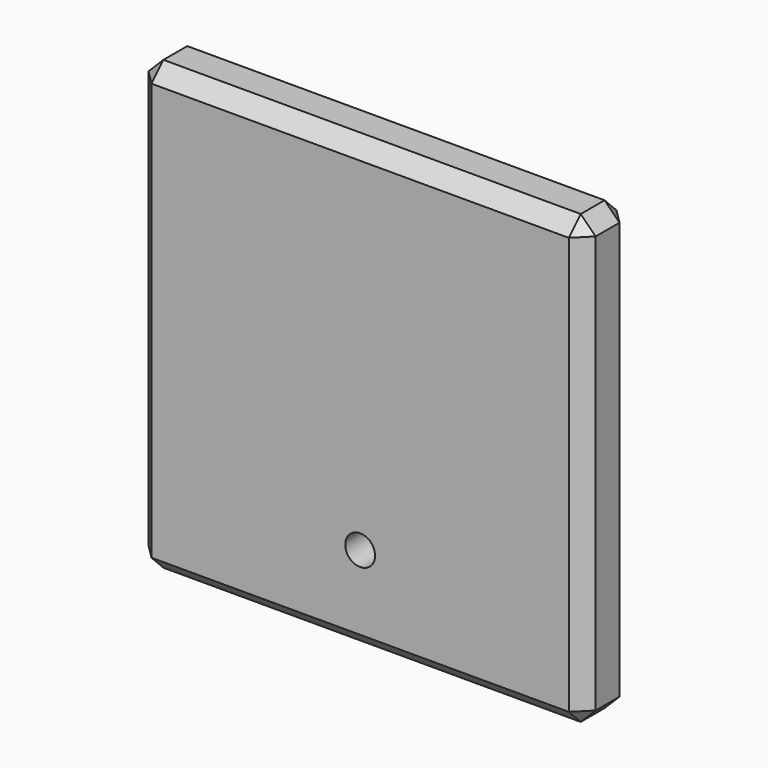
from build123d import *

# Parameters (mm, degrees)
F0_W     = 150
F0_H     = 150
F1_DEPTH = 20
F2_R     = 5
F3_DEPTH = 20.001
F4_SIZE  = 5


with BuildPart() as f1:
    # F0 (on Front) → F1 (new body)
    with BuildSketch(Plane.XZ):
        Rectangle(F0_W, F0_H)
    extrude(amount=F1_DEPTH)

    # F2 (on face) → F3 (cut, through all)
    with BuildSketch(Plane.XZ.offset(20)):
        with Locations((0, -45)):
            Circle(F2_R)
    extrude(amount=-F3_DEPTH, mode=Mode.SUBTRACT)

    # F4
    f4_edges = [f1.edges().sort_by_distance(p)[0] for p in [
        (75, -10, 75),
        (-75, -10, 75),
        (0, 0, 75),
        (0, -20, 75),
        (75, -10, -75),
        (75, 0, 0),
        (75, -20, 0),
        (-75, -10, -75),
        (0, 0, -75),
        (0, -20, -75),
        (-75, 0, 0),
        (-75, -20, 0),
    ]]
    chamfer(f4_edges, length=F4_SIZE)


solid = f1.part
